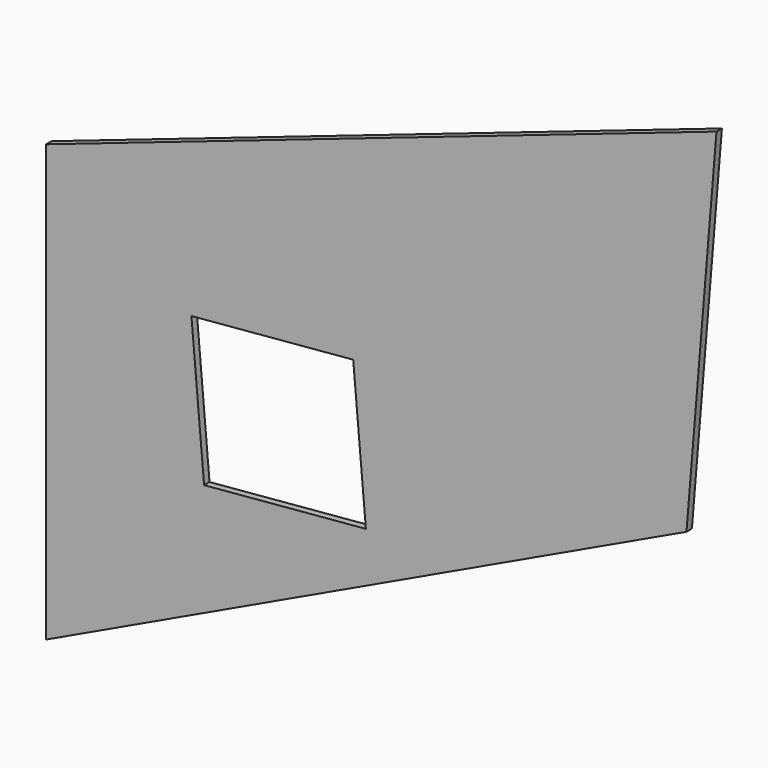
from build123d import *

# Parameters (mm, degrees)
F1_DEPTH = 4.7625


with BuildPart() as f1:
    # F0 (on Front) → F1 (new body)
    with BuildSketch(Plane.XZ):
        Polygon((0, 304.8), (0, 0), (447.678881, 211.909673), (468.662757, 465.041411), align=None)
        Polygon((110.455023, 130.950268), (101.6, 232.163649), (214.705954, 242.059138), (223.560977, 140.845756), align=None, mode=Mode.SUBTRACT)
    extrude(amount=F1_DEPTH)


solid = f1.part
